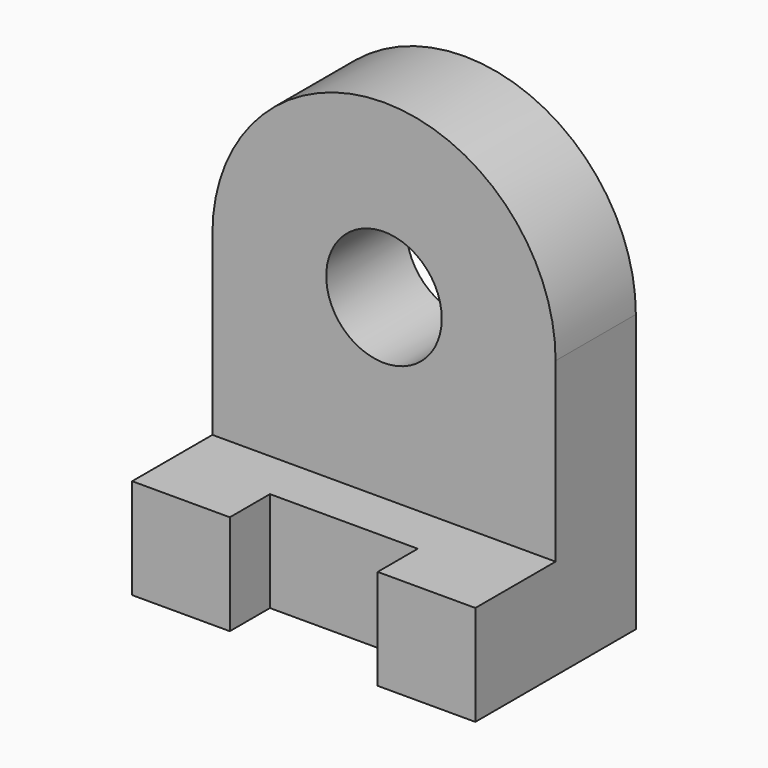
from build123d import *

# Parameters (mm, degrees)
F0_R     = 11.1125
F1_DEPTH = 19.304
F3_DEPTH = 19.304


with BuildPart() as f1:
    # F0 (on Front) → F1 (new body)
    with BuildSketch(Plane.XZ):
        with BuildLine():
            Line((-66.04, 0), (0, 0))
            Line((0, 0), (0, 53.34))
            ThreePointArc((0, 53.34), (-33.02, 86.36), (-66.04, 53.34))
            Line((-66.04, 53.34), (-66.04, 0))
        make_face()
        with Locations((-33.02, 53.34)):
            Circle(F0_R, mode=Mode.SUBTRACT)
    extrude(amount=F1_DEPTH)

    # F2 (on Top) → F3 (join)
    with BuildSketch(Plane.XY):
        Polygon((0, -38.608), (0, 0), (-66.04, 0), (-66.04, -38.608), (-47.244, -38.608), (-47.244, -28.956), (-18.796, -28.956), (-18.796, -38.608), align=None)
    extrude(amount=F3_DEPTH)


solid = f1.part
